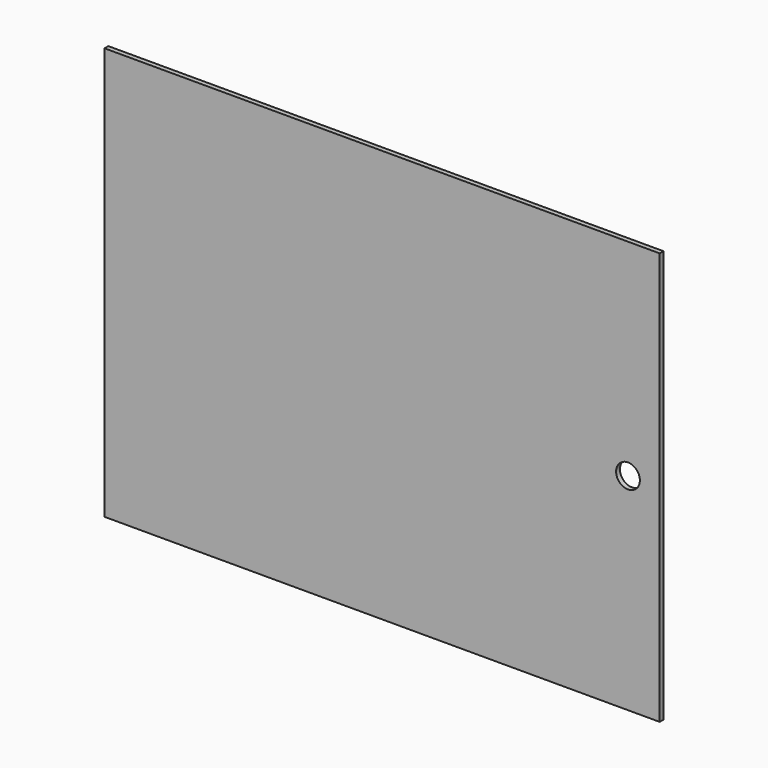
from build123d import *

# Parameters (mm, degrees)
F0_W     = 700
F0_H     = 520
F0_R     = 15
F1_DEPTH = 6


with BuildPart() as f1:
    # F0 (on Front) → F1 (new body)
    with BuildSketch(Plane.XZ):
        Rectangle(F0_W, F0_H)
        with Locations((310, 0)):
            Circle(F0_R, mode=Mode.SUBTRACT)
    extrude(amount=-F1_DEPTH)


solid = f1.part
